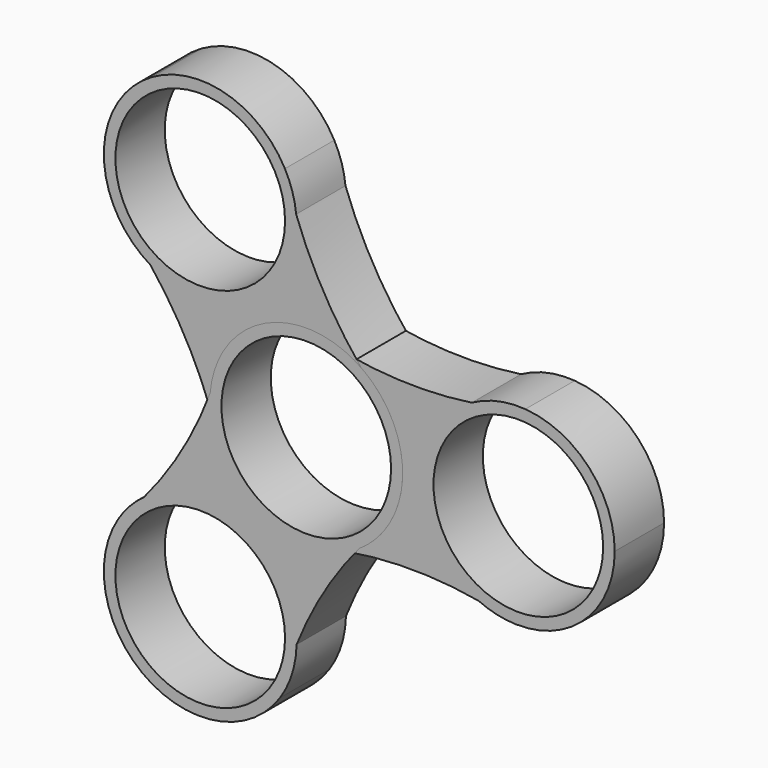
from build123d import *

# Parameters (mm, degrees)
F0_R     = 11
F1_DEPTH = 8
F3_COUNT = 3


with BuildPart() as f1:
    # F0 (on Front) → F1 (new body)
    with BuildSketch(Plane.XZ):
        with BuildLine():
            ThreePointArc((5.58994, 11.180455), (2.776007, 11.759896), (0, 12.5))
            ThreePointArc((0, 12.5), (-12.5, 0), (0, -12.5))
            ThreePointArc((0, -12.5), (2.652565, -11.828422), (5.337896, -11.302958))
            ThreePointArc((5.337896, -11.302958), (10.558733, -6.690527), (12.5, 0))
            ThreePointArc((12.5, 0), (10.633068, 6.571748), (5.58994, 11.180455))
        make_face()
        Circle(F0_R, mode=Mode.SUBTRACT)
        with BuildLine():
            ThreePointArc((5.58994, 11.180455), (2.871786, 12.165642), (0, 12.5))
            ThreePointArc((0, 12.5), (2.776007, 11.759896), (5.58994, 11.180455))
        make_face()
        with BuildLine():
            ThreePointArc((5.337896, -11.302958), (2.652565, -11.828422), (0, -12.5))
            ThreePointArc((0, -12.5), (2.735235, -12.197069), (5.337896, -11.302958))
        make_face()
        with BuildLine():
            ThreePointArc((21.458143, 10.94285), (13.514554, 10.428067), (5.58994, 11.180455))
            ThreePointArc((5.58994, 11.180455), (10.633068, 6.571748), (12.5, 0))
            ThreePointArc((12.5, 0), (10.558733, -6.690527), (5.337896, -11.302958))
            ThreePointArc((5.337896, -11.302958), (13.846973, -10.61734), (22.348661, -11.389193))
            ThreePointArc((22.348661, -11.389193), (15.009926, -0.498057), (21.458143, 10.94285))
        make_face()
        with BuildLine():
            ThreePointArc((28.413516, 12.466575), (24.962988, 11.580744), (21.458143, 10.94285))
            ThreePointArc((21.458143, 10.94285), (15.009926, -0.498057), (22.348661, -11.389193))
            ThreePointArc((22.348661, -11.389193), (24.773899, -11.882738), (27.171744, -12.495689))
            ThreePointArc((27.171744, -12.495689), (36.222007, -8.954139), (40, 0))
            ThreePointArc((40, 0), (36.656117, 8.509731), (28.413516, 12.466575))
        make_face()
        with Locations((27.5, 0)):
            Circle(F0_R, mode=Mode.SUBTRACT)
        with BuildLine():
            ThreePointArc((28.413516, 12.466575), (24.825041, 12.21043), (21.458143, 10.94285))
            ThreePointArc((21.458143, 10.94285), (24.962988, 11.580744), (28.413516, 12.466575))
        make_face()
        with BuildLine():
            ThreePointArc((27.171744, -12.495689), (24.773899, -11.882738), (22.348661, -11.389193))
            ThreePointArc((22.348661, -11.389193), (24.704902, -12.18349), (27.171744, -12.495689))
        make_face()
    extrude(amount=F1_DEPTH)


with BuildPart() as f3_1:
    # F3: instance of F1
    add(f1.part.rotate(Axis((0, -19.36996, 0), (0, -1, 0)), 1 * 360 / F3_COUNT))


with BuildPart() as f3_2:
    # F3: instance of F1
    add(f1.part.rotate(Axis((0, -19.36996, 0), (0, -1, 0)), 2 * 360 / F3_COUNT))


solid = Compound([f1.part, f3_1.part, f3_2.part])
